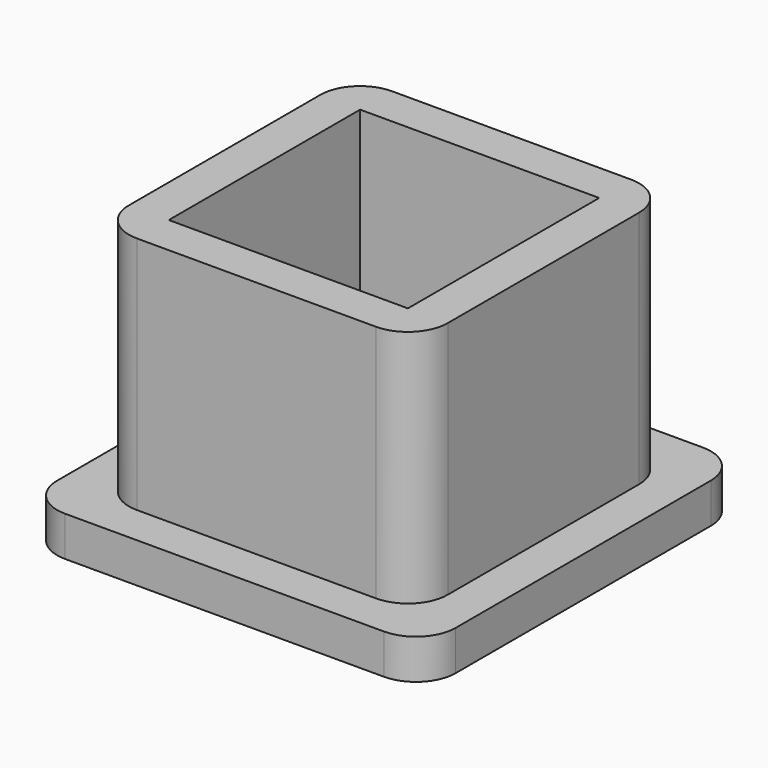
from build123d import *

# Parameters (mm, degrees)
F0_W     = 20
F0_H     = 20
F1_DEPTH = 2
F2_W     = 16
F2_H     = 16
F2_W_2   = 12
F2_H_2   = 12
F3_DEPTH = 12
F4_R     = 2


with BuildPart() as f1:
    # F0 (on Top) → F1 (new body)
    with BuildSketch(Plane.XY):
        Rectangle(F0_W, F0_H)
    extrude(amount=F1_DEPTH)

    # F2 (on face) → F3 (join)
    with BuildSketch(Plane.XY.offset(2)):
        Rectangle(F2_W, F2_H)
        Rectangle(F2_W_2, F2_H_2, mode=Mode.SUBTRACT)
    extrude(amount=F3_DEPTH)

    # F4
    f4_edges = [f1.edges().sort_by_distance(p)[0] for p in [
        (-10, 10, 1),
        (-8, 8, 8),
        (-10, -10, 1),
        (-8, -8, 8),
        (10, 10, 1),
        (8, 8, 8),
        (10, -10, 1),
        (8, -8, 8),
    ]]
    fillet(f4_edges, radius=F4_R)


solid = f1.part
